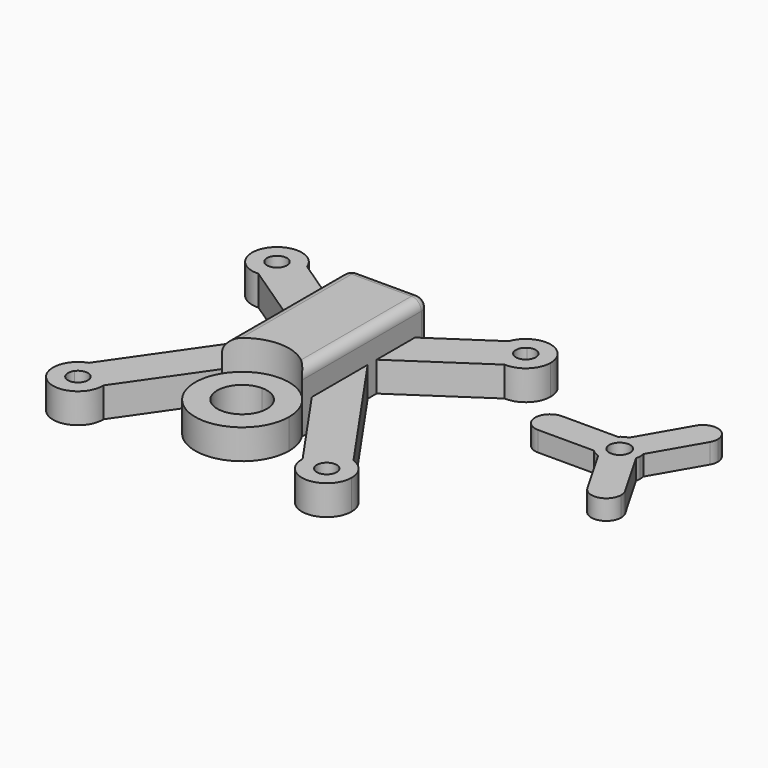
from build123d import *

# Parameters (mm, degrees)
F1_DEPTH = 3
F2_DEPTH = 6
F0_R     = 1.05
F3_DEPTH = 2
F4_R     = 1


with BuildPart() as f1:
    # F0 (on Top) → F1 (new body)
    with BuildSketch(Plane.XY):
        with BuildLine():
            ThreePointArc((-13.0572436168, 11.669650946), (-13.330349054, 13.0572436168), (-11.9427563832, 13.330349054))
            Line((-11.9427563832, 13.330349054), (-10.0401876865, 12.0535435267))
            ThreePointArc((-10.0401876865, 12.0535435267), (-10.0100671913, 12.2758692164), (-10, 12.5))
            ThreePointArc((-10, 12.5), (-10.0352457489, 12.9183138554), (-10.1399891853, 13.3248326828))
            ThreePointArc((-10.1399891853, 13.3248326828), (-14.575872635, 13.8931090421), (-12.3689636526, 10.0034364667))
            ThreePointArc((-12.3689636526, 10.0034364667), (-11.7365731215, 10.1194161638), (-11.1546749202, 10.3928454187))
            Line((-11.1546749202, 10.3928454187), (-13.0572436168, 11.669650946))
        make_face()
        with BuildLine():
            ThreePointArc((-10, 12.5), (-10.0100671913, 12.2758692164), (-10.0401876865, 12.0535435267))
            Line((-10.0401876865, 12.0535435267), (-4, 8))
            Line((-4, 8), (-4, 9.204312807))
            Line((-4, 9.204312807), (-10.1399891853, 13.3248326828))
            ThreePointArc((-10.1399891853, 13.3248326828), (-10.0352457489, 12.9183138554), (-10, 12.5))
        make_face()
        with BuildLine():
            Line((-4, 8), (-10.0401876865, 12.0535435267))
            ThreePointArc((-10.0401876865, 12.0535435267), (-10.424127365, 11.1068909579), (-11.1546749202, 10.3928454187))
            Line((-11.1546749202, 10.3928454187), (-4, 5.5913743861))
            Line((-4, 5.5913743861), (-4, 8))
        make_face()
        with BuildLine():
            ThreePointArc((-11.9427563832, 13.330349054), (-11.6176045057, 12.9705084394), (-11.5, 12.5))
            ThreePointArc((-11.5, 12.5), (-12.0294915606, 11.6176045057), (-13.0572436168, 11.669650946))
            Line((-13.0572436168, 11.669650946), (-11.1546749202, 10.3928454187))
            ThreePointArc((-11.1546749202, 10.3928454187), (-10.424127365, 11.1068909579), (-10.0401876865, 12.0535435267))
            Line((-10.0401876865, 12.0535435267), (-11.9427563832, 13.330349054))
        make_face()
        with BuildLine():
            Line((-4, 5.5913743861), (-11.1546749202, 10.3928454187))
            ThreePointArc((-11.1546749202, 10.3928454187), (-11.7365731215, 10.1194161638), (-12.3689636526, 10.0034364667))
            Line((-12.3689636526, 10.0034364667), (-4, 4.3870615791))
            Line((-4, 4.3870615791), (-4, 5.5913743861))
        make_face()
        with BuildLine():
            Line((-4, 9.204312807), (-4, 8))
            Line((-4, 8), (-4, 5.5913743861))
            Line((-4, 5.5913743861), (-4, 4.3870615791))
            Line((-4, 4.3870615791), (-4, 3.2637324411))
            Line((-4, 3.2637324411), (-4, 1.5091549607))
            Line((-4, 1.5091549607), (-4, -2))
            Line((-4, -2), (-4, -3.7545774804))
            Line((-4, -3.7545774804), (-4, -5))
            ThreePointArc((-4, -5), (0, -2.783009434), (4, -5))
            Line((4, -5), (4, -3.7545774804))
            Line((4, -3.7545774804), (4, -2))
            Line((4, -2), (4, 1.5091549607))
            Line((4, 1.5091549607), (4, 3.2637324411))
            Line((4, 3.2637324411), (4, 4.3870615791))
            Line((4, 4.3870615791), (4, 5.5913743861))
            Line((4, 5.5913743861), (4, 8))
            Line((4, 8), (4, 9.204312807))
            Line((4, 9.204312807), (4, 11))
            Line((4, 11), (-4, 11))
            Line((-4, 11), (-4, 9.204312807))
        make_face()
        with BuildLine():
            Line((10.1399891853, 13.3248326828), (4, 9.204312807))
            Line((4, 9.204312807), (4, 8))
            Line((4, 8), (10.0401876865, 12.0535435267))
            ThreePointArc((10.0401876865, 12.0535435267), (10.007668205, 12.6956584365), (10.1399891853, 13.3248326828))
        make_face()
        with BuildLine():
            ThreePointArc((15, 12.5), (12.9183138554, 14.9647542511), (10.1399891853, 13.3248326828))
            ThreePointArc((10.1399891853, 13.3248326828), (10.007668205, 12.6956584365), (10.0401876865, 12.0535435267))
            Line((10.0401876865, 12.0535435267), (11.9427563832, 13.330349054))
            ThreePointArc((11.9427563832, 13.330349054), (12.9705084394, 13.3823954943), (13.5, 12.5))
            ThreePointArc((13.5, 12.5), (13.3823954943, 12.0294915606), (13.0572436168, 11.669650946))
            Line((13.0572436168, 11.669650946), (11.1546749202, 10.3928454187))
            ThreePointArc((11.1546749202, 10.3928454187), (11.7365731215, 10.1194161638), (12.3689636526, 10.0034364667))
            ThreePointArc((12.3689636526, 10.0034364667), (14.2208150876, 10.686496365), (15, 12.5))
        make_face()
        with BuildLine():
            Line((11.9427563832, 13.330349054), (10.0401876865, 12.0535435267))
            ThreePointArc((10.0401876865, 12.0535435267), (10.424127365, 11.1068909579), (11.1546749202, 10.3928454187))
            Line((11.1546749202, 10.3928454187), (13.0572436168, 11.669650946))
            ThreePointArc((13.0572436168, 11.669650946), (11.669650946, 11.9427563832), (11.9427563832, 13.330349054))
        make_face()
        with BuildLine():
            Line((10.0401876865, 12.0535435267), (4, 8))
            Line((4, 8), (4, 5.5913743861))
            Line((4, 5.5913743861), (11.1546749202, 10.3928454187))
            ThreePointArc((11.1546749202, 10.3928454187), (10.424127365, 11.1068909579), (10.0401876865, 12.0535435267))
        make_face()
        with BuildLine():
            Line((11.1546749202, 10.3928454187), (4, 5.5913743861))
            Line((4, 5.5913743861), (4, 4.3870615791))
            Line((4, 4.3870615791), (12.3689636526, 10.0034364667))
            ThreePointArc((12.3689636526, 10.0034364667), (11.7365731215, 10.1194161638), (11.1546749202, 10.3928454187))
        make_face()
        with BuildLine():
            Line((13.2884690251, -10.127592658), (4, 3.2637324411))
            Line((4, 3.2637324411), (4, 1.5091549607))
            Line((4, 1.5091549607), (12.0157963331, -10.0473388312))
            ThreePointArc((12.0157963331, -10.0473388312), (12.657335696, -10.0049558163), (13.2884690251, -10.127592658))
        make_face()
        with BuildLine():
            Line((12.0157963331, -10.0473388312), (4, 1.5091549607))
            Line((4, 1.5091549607), (4, -2))
            Line((4, -2), (10.3724206329, -11.187214398))
            ThreePointArc((10.3724206329, -11.187214398), (11.0751555414, -10.4457803747), (12.0157963331, -10.0473388312))
        make_face()
        with BuildLine():
            Line((4, -2), (4, -3.7545774804))
            Line((4, -3.7545774804), (10.0017176246, -12.4073437917))
            ThreePointArc((10.0017176246, -12.4073437917), (10.1079656881, -11.7732456738), (10.3724206329, -11.187214398))
            Line((10.3724206329, -11.187214398), (4, -2))
        make_face()
        with BuildLine():
            Line((-4, 1.5091549607), (-4, 3.2637324411))
            Line((-4, 3.2637324411), (-13.2884690251, -10.127592658))
            ThreePointArc((-13.2884690251, -10.127592658), (-12.657335696, -10.0049558163), (-12.0157963331, -10.0473388312))
            Line((-12.0157963331, -10.0473388312), (-4, 1.5091549607))
        make_face()
        with BuildLine():
            Line((-4, -2), (-4, 1.5091549607))
            Line((-4, 1.5091549607), (-12.0157963331, -10.0473388312))
            ThreePointArc((-12.0157963331, -10.0473388312), (-11.0751555414, -10.4457803747), (-10.3724206329, -11.187214398))
            Line((-10.3724206329, -11.187214398), (-4, -2))
        make_face()
        with BuildLine():
            Line((-4, -3.7545774804), (-4, -2))
            Line((-4, -2), (-10.3724206329, -11.187214398))
            ThreePointArc((-10.3724206329, -11.187214398), (-10.1079656881, -11.7732456738), (-10.0017176246, -12.4073437917))
            Line((-10.0017176246, -12.4073437917), (-4, -3.7545774804))
        make_face()
        with BuildLine():
            ThreePointArc((-12.0157963331, -10.0473388312), (-12.657335696, -10.0049558163), (-13.2884690251, -10.127592658))
            ThreePointArc((-13.2884690251, -10.127592658), (-13.9626734833, -14.5274580837), (-10, -12.5))
            ThreePointArc((-10, -12.5), (-10.000429443, -12.4536639364), (-10.0017176246, -12.4073437917))
            ThreePointArc((-10.0017176246, -12.4073437917), (-10.1079656881, -11.7732456738), (-10.3724206329, -11.187214398))
            Line((-10.3724206329, -11.187214398), (-11.6783121499, -13.0699377834))
            ThreePointArc((-11.6783121499, -13.0699377834), (-13.0699377834, -13.3216878501), (-13.3216878501, -11.9300622166))
            Line((-13.3216878501, -11.9300622166), (-12.0157963331, -10.0473388312))
        make_face()
        with BuildLine():
            ThreePointArc((-10.3724206329, -11.187214398), (-11.0751555414, -10.4457803747), (-12.0157963331, -10.0473388312))
            Line((-12.0157963331, -10.0473388312), (-13.3216878501, -11.9300622166))
            ThreePointArc((-13.3216878501, -11.9300622166), (-12.2014098546, -11.5456185642), (-11.5, -12.5))
            ThreePointArc((-11.5, -12.5), (-11.5456185642, -12.7985901454), (-11.6783121499, -13.0699377834))
            Line((-11.6783121499, -13.0699377834), (-10.3724206329, -11.187214398))
        make_face()
        with BuildLine():
            ThreePointArc((15, -12.5), (14.5274580837, -11.0373265167), (13.2884690251, -10.127592658))
            ThreePointArc((13.2884690251, -10.127592658), (12.657335696, -10.0049558163), (12.0157963331, -10.0473388312))
            Line((12.0157963331, -10.0473388312), (13.3216878501, -11.9300622166))
            ThreePointArc((13.3216878501, -11.9300622166), (13.4543814358, -12.2014098546), (13.5, -12.5))
            ThreePointArc((13.5, -12.5), (12.7985901454, -13.4543814358), (11.6783121499, -13.0699377834))
            Line((11.6783121499, -13.0699377834), (10.3724206329, -11.187214398))
            ThreePointArc((10.3724206329, -11.187214398), (10.1079656881, -11.7732456738), (10.0017176246, -12.4073437917))
            ThreePointArc((10.0017176246, -12.4073437917), (12.4536639364, -14.999570557), (15, -12.5))
        make_face()
        with BuildLine():
            Line((13.3216878501, -11.9300622166), (12.0157963331, -10.0473388312))
            ThreePointArc((12.0157963331, -10.0473388312), (11.0751555414, -10.4457803747), (10.3724206329, -11.187214398))
            Line((10.3724206329, -11.187214398), (11.6783121499, -13.0699377834))
            ThreePointArc((11.6783121499, -13.0699377834), (11.9300622166, -11.6783121499), (13.3216878501, -11.9300622166))
        make_face()
        with BuildLine():
            ThreePointArc((4, -5), (0, -2.783009434), (-4, -5))
            Line((-4, -5), (0, -5))
            Line((0, -5), (4, -5))
        make_face()
        with BuildLine():
            Line((0, -5), (-4, -5))
            ThreePointArc((-4, -5), (-1.3003918132, -12.0342012673), (4.716990566, -7.5))
            ThreePointArc((4.716990566, -7.5), (4.5342012673, -6.1996081868), (4, -5))
            Line((4, -5), (0, -5))
        make_face()
        with BuildLine():
            ThreePointArc((2.5, -7.5), (-1.767766953, -9.267766953), (0, -5))
            ThreePointArc((0, -5), (1.767766953, -5.732233047), (2.5, -7.5))
        make_face(mode=Mode.SUBTRACT)
    extrude(amount=F1_DEPTH)

    # F0 (on Top) → F2 (join)
    with BuildSketch(Plane.XY):
        with BuildLine():
            Line((-4, 9.204312807), (-4, 8))
            Line((-4, 8), (-4, 5.5913743861))
            Line((-4, 5.5913743861), (-4, 4.3870615791))
            Line((-4, 4.3870615791), (-4, 3.2637324411))
            Line((-4, 3.2637324411), (-4, 1.5091549607))
            Line((-4, 1.5091549607), (-4, -2))
            Line((-4, -2), (-4, -3.7545774804))
            Line((-4, -3.7545774804), (-4, -5))
            ThreePointArc((-4, -5), (0, -2.783009434), (4, -5))
            Line((4, -5), (4, -3.7545774804))
            Line((4, -3.7545774804), (4, -2))
            Line((4, -2), (4, 1.5091549607))
            Line((4, 1.5091549607), (4, 3.2637324411))
            Line((4, 3.2637324411), (4, 4.3870615791))
            Line((4, 4.3870615791), (4, 5.5913743861))
            Line((4, 5.5913743861), (4, 8))
            Line((4, 8), (4, 9.204312807))
            Line((4, 9.204312807), (4, 11))
            Line((4, 11), (-4, 11))
            Line((-4, 11), (-4, 9.204312807))
        make_face()
    extrude(amount=F2_DEPTH)

    # F4
    f4_edges = [f1.edges().sort_by_distance(p)[0] for p in [
        (-4, 3, 6),
        (0, 11, 6),
        (4, 3, 6),
        (4, 11, 3),
        (-4, 11, 3),
    ]]
    fillet(f4_edges, radius=F4_R)


with BuildPart() as f3:
    # F0 (on Top) → F3 (new body)
    with BuildSketch(Plane.XY):
        with BuildLine():
            Line((31.9540518606, 0.6652427755), (29.1527112913, 5.517306971))
            ThreePointArc((29.1527112913, 5.517306971), (28.180013755, 4.2020685242), (26.5546350799, 4.017306971))
            Line((26.5546350799, 4.017306971), (29.3559756493, -0.8347572245))
            ThreePointArc((29.3559756493, -0.8347572245), (29.905013755, 1.2142808812), (31.9540518606, 0.6652427755))
        make_face()
        with BuildLine():
            ThreePointArc((21.655013755, 5.977420602), (21.2156739267, 7.0380807738), (20.155013755, 7.477420602))
            ThreePointArc((20.155013755, 7.477420602), (18.655013755, 5.977420602), (20.155013755, 4.477420602))
            ThreePointArc((20.155013755, 4.477420602), (21.2156739267, 4.9167604302), (21.655013755, 5.977420602))
        make_face()
        with BuildLine():
            ThreePointArc((32.155013755, -0.0847572245), (32.1039024944, 0.3034713432), (31.9540518606, 0.6652427755))
            ThreePointArc((31.9540518606, 0.6652427755), (29.905013755, 1.2142808812), (29.3559756493, -0.8347572245))
            ThreePointArc((29.3559756493, -0.8347572245), (31.0432423226, -1.5336459639), (32.155013755, -0.0847572245))
        make_face()
        with BuildLine():
            ThreePointArc((29.3559756493, 12.7895984285), (29.905013755, 10.7405603228), (31.9540518606, 11.2895984285))
            ThreePointArc((31.9540518606, 11.2895984285), (32.1039024944, 11.6513698608), (32.155013755, 12.0395984285))
            ThreePointArc((32.155013755, 12.0395984285), (31.0432423226, 13.4884871679), (29.3559756493, 12.7895984285))
        make_face()
        with BuildLine():
            ThreePointArc((26.5546350799, 7.937534233), (28.180013755, 7.7527726798), (29.1527112913, 6.437534233))
            Line((29.1527112913, 6.437534233), (31.9540518606, 11.2895984285))
            ThreePointArc((31.9540518606, 11.2895984285), (29.905013755, 10.7405603228), (29.3559756493, 12.7895984285))
            Line((29.3559756493, 12.7895984285), (26.5546350799, 7.937534233))
        make_face()
        with BuildLine():
            ThreePointArc((25.7576948937, 4.477420602), (25.105013755, 5.977420602), (25.7576948937, 7.477420602))
            Line((25.7576948937, 7.477420602), (20.155013755, 7.477420602))
            ThreePointArc((20.155013755, 7.477420602), (21.2156739267, 7.0380807738), (21.655013755, 5.977420602))
            ThreePointArc((21.655013755, 5.977420602), (21.2156739267, 4.9167604302), (20.155013755, 4.477420602))
            Line((20.155013755, 4.477420602), (25.7576948937, 4.477420602))
        make_face()
        with BuildLine():
            ThreePointArc((29.1527112913, 5.517306971), (29.1918961705, 5.7458822136), (29.205013755, 5.977420602))
            ThreePointArc((29.205013755, 5.977420602), (29.1918961705, 6.2089589904), (29.1527112913, 6.437534233))
            ThreePointArc((29.1527112913, 6.437534233), (28.180013755, 7.7527726798), (26.5546350799, 7.937534233))
            ThreePointArc((26.5546350799, 7.937534233), (26.130013755, 7.7527726798), (25.7576948937, 7.477420602))
            ThreePointArc((25.7576948937, 7.477420602), (25.105013755, 5.977420602), (25.7576948937, 4.477420602))
            ThreePointArc((25.7576948937, 4.477420602), (26.130013755, 4.2020685242), (26.5546350799, 4.017306971))
            ThreePointArc((26.5546350799, 4.017306971), (28.180013755, 4.2020685242), (29.1527112913, 5.517306971))
        make_face()
        with Locations((27.155013755, 5.977420602)):
            Circle(F0_R, mode=Mode.SUBTRACT)
    extrude(amount=F3_DEPTH)


solid = Compound([f1.part, f3.part])
